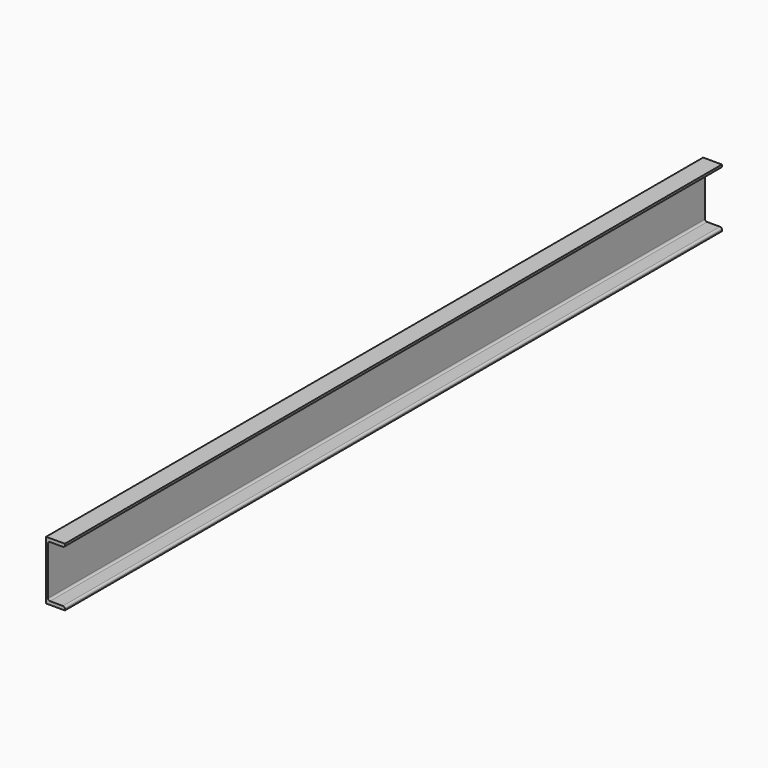
from build123d import *

# Parameters (mm, degrees)
F1_DEPTH = 2130
F2_R     = 5.08
F3_R     = 5.08


with BuildPart() as f1:
    # F0 (on Front) → F1 (new body)
    with BuildSketch(Plane.XZ):
        Polygon((48.768, 76.2), (0, 76.2), (0, 0), (5.08, 0), (5.08, 67.4878), (48.768, 67.4878), align=None)
        Polygon((5.08, 0), (0, 0), (0, -76.2), (48.768, -76.2), (48.768, -67.4878), (5.08, -67.4878), align=None)
    extrude(amount=F1_DEPTH)

    # F2
    f2_edges = [f1.edges().sort_by_distance(p)[0] for p in [
        (5.08, -1065, -67.4878),
        (5.08, -1065, 67.4878),
    ]]
    fillet(f2_edges, radius=F2_R)

    # F3
    f3_edges = [f1.edges().sort_by_distance(p)[0] for p in [
        (48.768, -1065, 67.4878),
        (48.768, -1065, -67.4878),
    ]]
    fillet(f3_edges, radius=F3_R)


solid = f1.part
